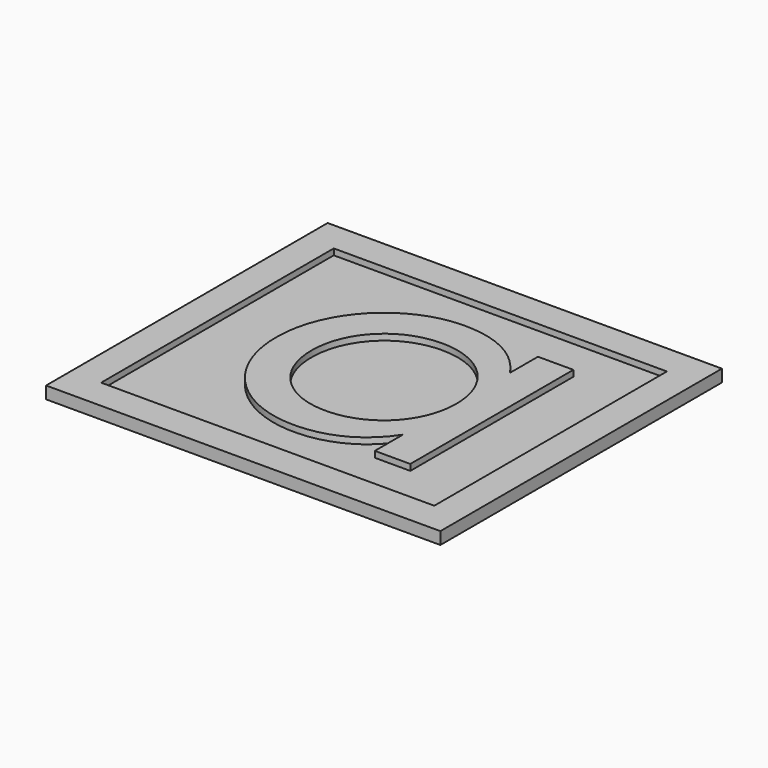
from build123d import *

# Parameters (mm, degrees)
F0_W     = 193.4158557523
F0_H     = 172.6455353569
F0_W_2   = 163.4158582486
F0_H_2   = 142.6455378532
F1_DEPTH = 3
F2_DEPTH = 6


with BuildPart() as f1:
    # F0 (on Top) → F1 (new body)
    with BuildSketch(Plane.XY):
        Rectangle(F0_W, F0_H)
        Rectangle(F0_W_2, F0_H_2, mode=Mode.SUBTRACT)
        Rectangle(F0_W_2, F0_H_2)
        with BuildLine():
            Line((35.4995967874, 50.0004287687), (52.8996007893, 50.0004287687))
            Line((52.8996007893, 50.0004287687), (52.8996007893, -49.9995712313))
            Line((52.8996007893, -49.9995712313), (35.4995967874, -49.9995712313))
            Line((35.4995967874, -49.9995712313), (35.4995967874, -32.7993734261))
            add(Edge.make_bspline(
                [(35.4995967874, -32.7993734261), (27.4996310889, -45.0001286306), (14.6994572947, -52.5996243987), (-2.3000767767, -52.5996243987)],
                knots=[0, 0, 0, 0, 1, 1, 1, 1], degree=3))
            add(Edge.make_bspline(
                [(-2.3000767767, -52.5996243987), (-30.1002934478, -52.5996243987), (-52.8996382893, -29.5999016691), (-52.8996382893, 0.0005716915)],
                knots=[0, 0, 0, 0, 1, 1, 1, 1], degree=3))
            add(Edge.make_bspline(
                [(-52.8996382893, 0.0005716915), (-52.8996382893, 29.5999016691), (-30.1002934478, 52.5996243987), (-2.3000767767, 52.5996243987)],
                knots=[0, 0, 0, 0, 1, 1, 1, 1], degree=3))
            add(Edge.make_bspline(
                [(-2.3000767767, 52.5996243987), (14.6994572947, 52.5996243987), (27.4996310889, 45.0001286306), (35.4995967874, 32.7993734261)],
                knots=[0, 0, 0, 0, 1, 1, 1, 1], degree=3))
            Line((35.4995967874, 32.7993734261), (35.4995967874, 50.0004287687))
        make_face(mode=Mode.SUBTRACT)
        with BuildLine():
            Line((52.8996007893, -49.9995712313), (52.8996007893, 50.0004287687))
            Line((52.8996007893, 50.0004287687), (35.4995967874, 50.0004287687))
            Line((35.4995967874, 50.0004287687), (35.4995967874, 32.7993734261))
            add(Edge.make_bspline(
                [(-2.3000767767, 52.5996243987), (14.6994572947, 52.5996243987), (27.4996310889, 45.0001286306), (35.4995967874, 32.7993734261)],
                knots=[0, 0, 0, 0, 1, 1, 1, 1], degree=3))
            add(Edge.make_bspline(
                [(-52.8996382893, 0.0005716915), (-52.8996382893, 29.5999016691), (-30.1002934478, 52.5996243987), (-2.3000767767, 52.5996243987)],
                knots=[0, 0, 0, 0, 1, 1, 1, 1], degree=3))
            add(Edge.make_bspline(
                [(-2.3000767767, -52.5996243987), (-30.1002934478, -52.5996243987), (-52.8996382893, -29.5999016691), (-52.8996382893, 0.0005716915)],
                knots=[0, 0, 0, 0, 1, 1, 1, 1], degree=3))
            add(Edge.make_bspline(
                [(35.4995967874, -32.7993734261), (27.4996310889, -45.0001286306), (14.6994572947, -52.5996243987), (-2.3000767767, -52.5996243987)],
                knots=[0, 0, 0, 0, 1, 1, 1, 1], degree=3))
            Line((35.4995967874, -32.7993734261), (35.4995967874, -49.9995712313))
            Line((35.4995967874, -49.9995712313), (52.8996007893, -49.9995712313))
        make_face()
        with BuildLine():
            add(Edge.make_bspline(
                [(35.4995967874, 0.0005716915), (35.4995967874, 20.4002412538), (20.0996556717, 35.8001823696), (-0.1002076941, 35.8001823696)],
                knots=[0, 0, 0, 0, 1, 1, 1, 1], degree=3))
            add(Edge.make_bspline(
                [(-0.1002076941, -35.7990389865), (20.0996556717, -35.7990389865), (35.4995967874, -20.3999554081), (35.4995967874, 0.0005716915)],
                knots=[0, 0, 0, 0, 1, 1, 1, 1], degree=3))
            add(Edge.make_bspline(
                [(-35.4996342874, 0.0005716915), (-35.4996342874, -20.3999554081), (-20.1002648632, -35.7990389865), (-0.1002076941, -35.7990389865)],
                knots=[0, 0, 0, 0, 1, 1, 1, 1], degree=3))
            add(Edge.make_bspline(
                [(-0.1002076941, 35.8001823696), (-20.1002648632, 35.8001823696), (-35.4996342874, 20.4002412538), (-35.4996342874, 0.0005716915)],
                knots=[0, 0, 0, 0, 1, 1, 1, 1], degree=3))
        make_face(mode=Mode.SUBTRACT)
        with BuildLine():
            add(Edge.make_bspline(
                [(-0.1002076941, -35.7990389865), (20.0996556717, -35.7990389865), (35.4995967874, -20.3999554081), (35.4995967874, 0.0005716915)],
                knots=[0, 0, 0, 0, 1, 1, 1, 1], degree=3))
            add(Edge.make_bspline(
                [(35.4995967874, 0.0005716915), (35.4995967874, 20.4002412538), (20.0996556717, 35.8001823696), (-0.1002076941, 35.8001823696)],
                knots=[0, 0, 0, 0, 1, 1, 1, 1], degree=3))
            add(Edge.make_bspline(
                [(-0.1002076941, 35.8001823696), (-20.1002648632, 35.8001823696), (-35.4996342874, 20.4002412538), (-35.4996342874, 0.0005716915)],
                knots=[0, 0, 0, 0, 1, 1, 1, 1], degree=3))
            add(Edge.make_bspline(
                [(-35.4996342874, 0.0005716915), (-35.4996342874, -20.3999554081), (-20.1002648632, -35.7990389865), (-0.1002076941, -35.7990389865)],
                knots=[0, 0, 0, 0, 1, 1, 1, 1], degree=3))
        make_face()
    extrude(amount=F1_DEPTH)

    # F0 (on Top) → F2 (join)
    with BuildSketch(Plane.XY):
        Rectangle(F0_W, F0_H)
        Rectangle(F0_W_2, F0_H_2, mode=Mode.SUBTRACT)
        with BuildLine():
            Line((52.8996007893, -49.9995712313), (52.8996007893, 50.0004287687))
            Line((52.8996007893, 50.0004287687), (35.4995967874, 50.0004287687))
            Line((35.4995967874, 50.0004287687), (35.4995967874, 32.7993734261))
            add(Edge.make_bspline(
                [(-2.3000767767, 52.5996243987), (14.6994572947, 52.5996243987), (27.4996310889, 45.0001286306), (35.4995967874, 32.7993734261)],
                knots=[0, 0, 0, 0, 1, 1, 1, 1], degree=3))
            add(Edge.make_bspline(
                [(-52.8996382893, 0.0005716915), (-52.8996382893, 29.5999016691), (-30.1002934478, 52.5996243987), (-2.3000767767, 52.5996243987)],
                knots=[0, 0, 0, 0, 1, 1, 1, 1], degree=3))
            add(Edge.make_bspline(
                [(-2.3000767767, -52.5996243987), (-30.1002934478, -52.5996243987), (-52.8996382893, -29.5999016691), (-52.8996382893, 0.0005716915)],
                knots=[0, 0, 0, 0, 1, 1, 1, 1], degree=3))
            add(Edge.make_bspline(
                [(35.4995967874, -32.7993734261), (27.4996310889, -45.0001286306), (14.6994572947, -52.5996243987), (-2.3000767767, -52.5996243987)],
                knots=[0, 0, 0, 0, 1, 1, 1, 1], degree=3))
            Line((35.4995967874, -32.7993734261), (35.4995967874, -49.9995712313))
            Line((35.4995967874, -49.9995712313), (52.8996007893, -49.9995712313))
        make_face()
        with BuildLine():
            add(Edge.make_bspline(
                [(35.4995967874, 0.0005716915), (35.4995967874, 20.4002412538), (20.0996556717, 35.8001823696), (-0.1002076941, 35.8001823696)],
                knots=[0, 0, 0, 0, 1, 1, 1, 1], degree=3))
            add(Edge.make_bspline(
                [(-0.1002076941, -35.7990389865), (20.0996556717, -35.7990389865), (35.4995967874, -20.3999554081), (35.4995967874, 0.0005716915)],
                knots=[0, 0, 0, 0, 1, 1, 1, 1], degree=3))
            add(Edge.make_bspline(
                [(-35.4996342874, 0.0005716915), (-35.4996342874, -20.3999554081), (-20.1002648632, -35.7990389865), (-0.1002076941, -35.7990389865)],
                knots=[0, 0, 0, 0, 1, 1, 1, 1], degree=3))
            add(Edge.make_bspline(
                [(-0.1002076941, 35.8001823696), (-20.1002648632, 35.8001823696), (-35.4996342874, 20.4002412538), (-35.4996342874, 0.0005716915)],
                knots=[0, 0, 0, 0, 1, 1, 1, 1], degree=3))
        make_face(mode=Mode.SUBTRACT)
    extrude(amount=F2_DEPTH)


solid = f1.part
